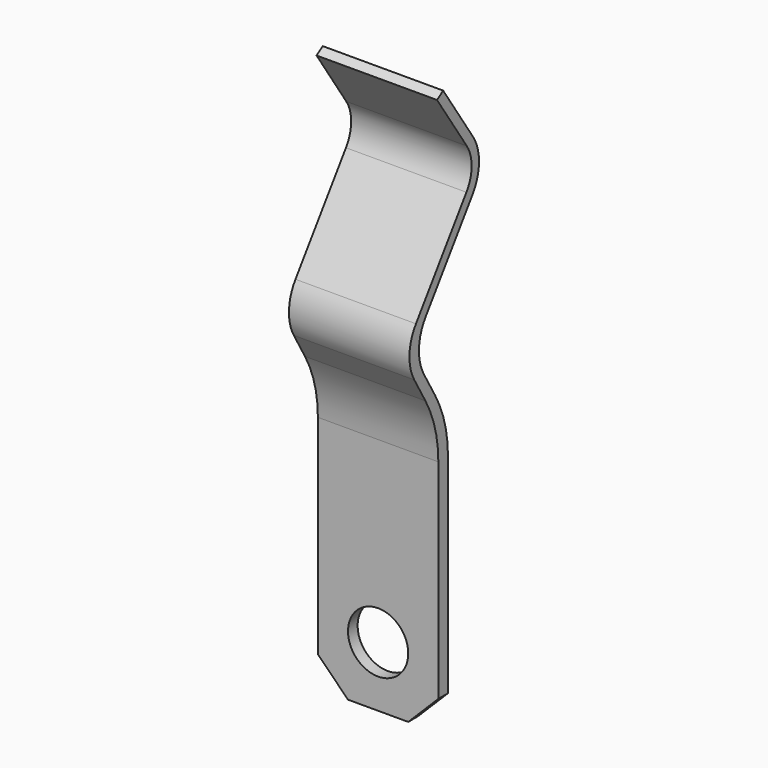
from build123d import *

# Parameters (mm, degrees)
PAD001_DEPTH = 2
SKETCH002_R  = 1
POCKET_DEPTH = 5
CHAMFER_SIZE = 1


with BuildPart() as part:
    # Sketch001 → Pad001 (new body, symmetric)
    with BuildSketch(Plane.YZ):
        with BuildLine():
            Line((-0.2, 0), (-0.2, 7.928203))
            ThreePointArc((-0.2, 7.928203), (-0.336297, 8.963479), (-0.735898, 9.928203))
            Line((-0.735898, 9.928203), (-1.2, 10.732051))
            ThreePointArc((-1.12969, 12.342415), (-1.399534, 11.54748), (-1.2, 10.732051))
            Line((-1.12969, 12.342415), (0.965775, 15.335049))
            ThreePointArc((0.965775, 15.335049), (1.181471, 16.006654), (0.980132, 16.682702))
            Line((0.980132, 16.682702), (-0.255119, 18.529347))
            Line((-0.255119, 18.529347), (0, 18.7))
            Line((0, 18.7), (1.235251, 16.853356))
            ThreePointArc((1.2172, 15.158999), (1.488387, 16.003385), (1.235251, 16.853356))
            Line((1.2172, 15.158999), (-0.728007, 12.380955))
            ThreePointArc((-0.728007, 12.380955), (-1.00431, 11.566995), (-0.8, 10.732051))
            Line((-0.8, 10.732051), (-0.335898, 9.928203))
            ThreePointArc((0.2, 7.928203), (0.063703, 8.963479), (-0.335898, 9.928203))
            Line((0.2, 7.928203), (0.2, 0))
            Line((-0.2, 0), (0.2, 0))
        make_face()
    extrude(amount=PAD001_DEPTH, both=True)

    # Sketch002 (on Face1 of Pad001) → Pocket (cut)
    with BuildSketch(Plane.ZX.offset(0.2)):
        with Locations((2, 0)):
            Circle(SKETCH002_R)
    extrude(amount=-POCKET_DEPTH, mode=Mode.SUBTRACT)

    # Chamfer
    chamfer_edges = [part.edges().sort_by_distance(p)[0] for p in [
        (2, 0, 0),
        (-2, 0, 0),
    ]]
    chamfer(chamfer_edges, length=CHAMFER_SIZE)


solid = part.part
